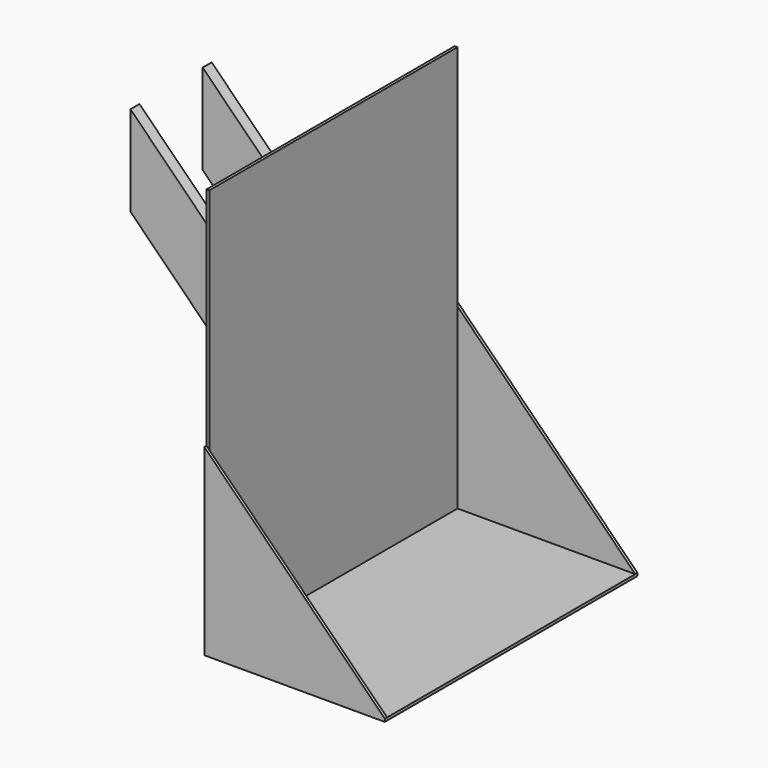
from build123d import *

# Parameters (mm, degrees)
F0_W     = 101.6
F0_H     = 177.8
F1_DEPTH = 1.5875
F3_DEPTH = 1.5875
F5_DEPTH = 1.5875
F7_DEPTH = 1.5875
F8_W     = 6.35
F8_H     = 50.8


with BuildPart() as f1:
    # F0 (on Top) → F1 (new body)
    with BuildSketch(Plane.XY):
        with Locations((50.8, 88.9)):
            Rectangle(F0_W, F0_H)
    extrude(amount=F1_DEPTH)

    # F2 (on Front) → F3 (join)
    with BuildSketch(Plane.XZ):
        Polygon((0, 103.1875), (0, 1.5875), (101.6, 1.5875), align=None)
    extrude(amount=-F3_DEPTH)

    # F4 (on face) → F5 (join)
    with BuildSketch(Plane(origin=(0, 177.8, 0), x_dir=(-1, 0, 0), z_dir=(0, 1, 0))):
        Polygon((-101.6, 1.5875), (0, 1.5875), (0, 103.1875), align=None)
    extrude(amount=-F5_DEPTH)

    # F6 (on face) → F7 (join)
    with BuildSketch(Plane(origin=(0, 0, 0), x_dir=(0, -1, 0), z_dir=(-1, 0, 0))):
        Polygon((-176.2125, 1.5875), (-1.5875, 1.5875), (-1.5875, 103.1875), (-1.5875, 230.1875), (-176.2125, 230.1875), (-176.2125, 103.1875), align=None)
    extrude(amount=-F7_DEPTH)

    # F11: sweep along a path in F10
    with BuildLine(Plane(origin=(0, 66.675, 0), x_dir=(-1, 0, 0), z_dir=(0, 1, 0))) as f11_path:
        Line((0, 76.2), (89.8025612107, 166.0025612107))
    # F8 (on face) → F11 (sweep)
    with BuildSketch(Plane(origin=(0, 0, 0), x_dir=(0, -1, 0), z_dir=(-1, 0, 0))):
        with Locations((-63.5, 101.6)):
            Rectangle(F8_W, F8_H)
        with Locations((-114.3, 101.6)):
            Rectangle(F8_W, F8_H)
    sweep(path=f11_path.line)


solid = f1.part
